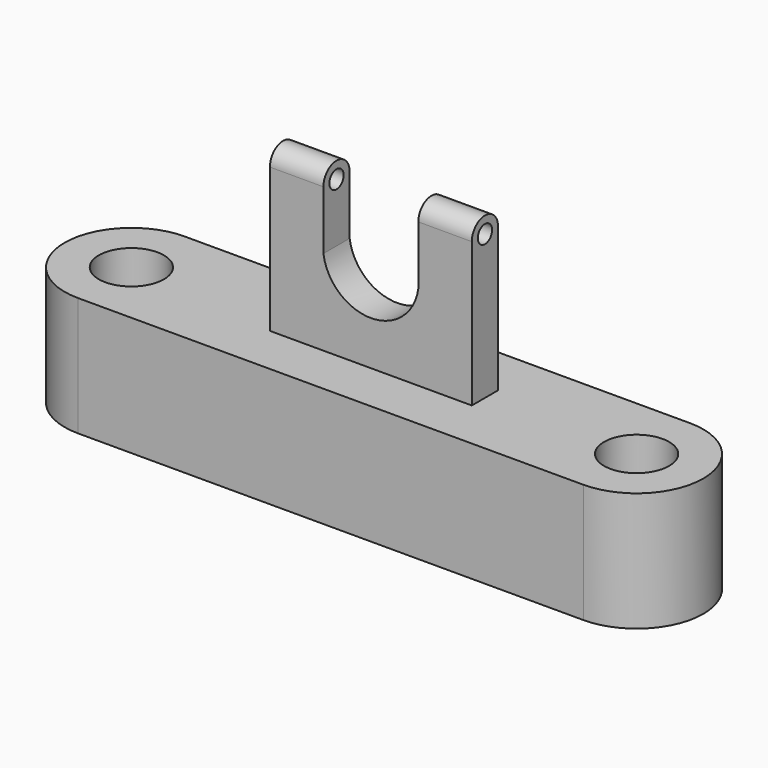
from build123d import *

# Parameters (mm, degrees)
F0_R      = 6.9387858197
F1_DEPTH  = 25.4
F2_W      = 43.0467336029
F2_H      = 6.9942568773
F3_DEPTH  = 5.08
F5_DEPTH  = 6.9942568773
F7_DEPTH  = 11.4016152248
F9_DEPTH  = 11.4016152248
F10_R     = 1.905
F11_DEPTH = 11.4016152248
F12_R     = 1.905
F13_DEPTH = 11.4016152248


with BuildPart() as f1:
    # F0 (on Top) → F1 (new body)
    with BuildSketch(Plane.XY):
        with BuildLine():
            Line((59.8869994283, 10.7242316008), (-47.837305814, 10.7242316008))
            ThreePointArc((-47.837305814, 10.7242316008), (-62.055950053, -3.4944126382), (-47.837305814, -17.7130568773))
            Line((-47.837305814, -17.7130568773), (59.8869994283, -17.7130568773))
            ThreePointArc((59.8869994283, -17.7130568773), (74.1056436673, -3.4944126382), (59.8869994283, 10.7242316008))
        make_face()
        with Locations((-47.837305814, -3.4944126382)):
            Circle(F0_R, mode=Mode.SUBTRACT)
        with Locations((59.8869994283, -3.4944126382)):
            Circle(F0_R, mode=Mode.SUBTRACT)
    extrude(amount=F1_DEPTH)

    # F2 (on face) → F3 (join)
    with BuildSketch(Plane.XY.offset(25.4)):
        with Locations((6.0248468071, -3.4971284386)):
            Rectangle(F2_W, F2_H)
    extrude(amount=F3_DEPTH)

    # F4 (on face) → F5 (join, through all)
    with BuildSketch(Plane(origin=(0, 0, 0), x_dir=(-1, 0, 0), z_dir=(0, 1, 0))):
        with BuildLine():
            Line((-27.5482136086, 56.1515986919), (-27.5482136086, 30.48))
            Line((-27.5482136086, 30.48), (15.4985199943, 30.48))
            Line((15.4985199943, 30.48), (15.4985199943, 56.1515986919))
            Line((15.4985199943, 56.1515986919), (4.0969047695, 56.1515986919))
            Line((4.0969047695, 56.1515986919), (4.0969047695, 43.6199121177))
            ThreePointArc((4.0969047695, 43.6199121177), (-6.0248468071, 34.804850773), (-16.1465983838, 43.6199121177))
            Line((-16.1465983838, 43.6199121177), (-16.1465983838, 56.1515986919))
            Line((-16.1465983838, 56.1515986919), (-27.5482136086, 56.1515986919))
        make_face()
    extrude(amount=-F5_DEPTH)

    # F6 (on face) → F7 (join, through all)
    with BuildSketch(Plane.YZ.offset(27.5482136086)):
        with BuildLine():
            Line((-6.9942568773, 56.1515986919), (0, 56.1515986919))
            ThreePointArc((0, 56.1515986919), (-3.4971284386, 59.6487271306), (-6.9942568773, 56.1515986919))
        make_face()
    extrude(amount=-F7_DEPTH)

    # F8 (on face) → F9 (join, through all)
    with BuildSketch(Plane(origin=(-15.4985199943, 0, 0), x_dir=(0, -1, 0), z_dir=(-1, 0, 0))):
        with BuildLine():
            Line((0, 56.1515986919), (6.9942568773, 56.1515986919))
            ThreePointArc((6.9942568773, 56.1515986919), (3.4971284386, 59.6487271306), (0, 56.1515986919))
        make_face()
    extrude(amount=-F9_DEPTH)

    # F10 (on face) → F11 (cut, through all)
    with BuildSketch(Plane.YZ.offset(27.5482136086)):
        with Locations((-3.4971284386, 56.1515986919)):
            Circle(F10_R)
    extrude(amount=-F11_DEPTH, mode=Mode.SUBTRACT)

    # F12 (on face) → F13 (cut, through all)
    with BuildSketch(Plane(origin=(-15.4985199943, 0, 0), x_dir=(0, -1, 0), z_dir=(-1, 0, 0))):
        with Locations((3.4971284386, 56.1515986919)):
            Circle(F12_R)
    extrude(amount=-F13_DEPTH, mode=Mode.SUBTRACT)


solid = f1.part
